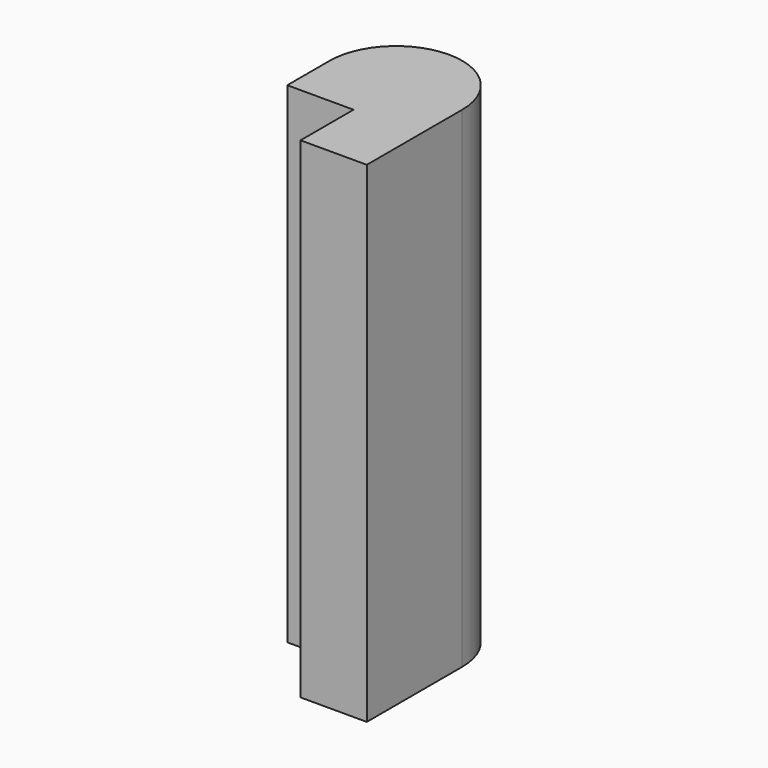
from build123d import *

# Parameters (mm, degrees)
F1_DEPTH = 111


with BuildPart() as f1:
    # F0 (on Top) → F1 (new body)
    with BuildSketch(Plane.XY):
        Polygon((6.167513, 15), (6.167513, 0), (21.167513, 0), (21.167513, 27), (-8.832487, 27), (-8.832487, 15), align=None)
        with BuildLine():
            Line((-8.832487, 27), (21.167513, 27))
            ThreePointArc((21.167513, 27), (6.167513, 42), (-8.832487, 27))
        make_face()
    extrude(amount=F1_DEPTH)


solid = f1.part
